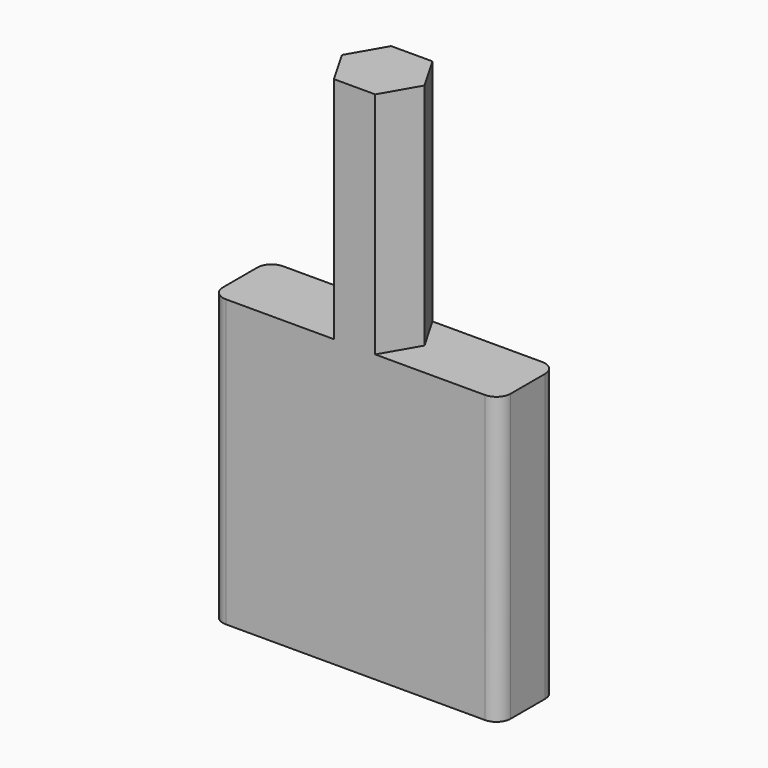
from build123d import *

# Parameters (mm, degrees)
F1_DEPTH      = 8
F2_W          = 10.055962
F2_H          = 10
F3_DEPTH      = 1.25
F3_DEPTH_BACK = 1.25
F4_R          = 0.5


with BuildPart() as f1:
    # F0 (on Top) → F1 (new body)
    with BuildSketch(Plane.XY):
        Polygon((0.721688, 1.25), (-0.721688, 1.25), (-1.443376, 0), (-0.721688, -1.25), (0.721688, -1.25), (1.443376, 0), align=None)
    extrude(amount=F1_DEPTH)

    # F2 (on Front) → F3 (join, two sides)
    with BuildSketch(Plane.XZ) as f3_sk:
        with Locations((0.027981, -5)):
            Rectangle(F2_W, F2_H)
    extrude(amount=F3_DEPTH)
    extrude(f3_sk.sketch, amount=-F3_DEPTH_BACK)

    # F4
    f4_edges = [f1.edges().sort_by_distance(p)[0] for p in [
        (5.055962, -1.25, -5),
        (5.055962, 1.25, -5),
        (-5, -1.25, -5),
        (-5, 1.25, -5),
    ]]
    fillet(f4_edges, radius=F4_R)


solid = f1.part
